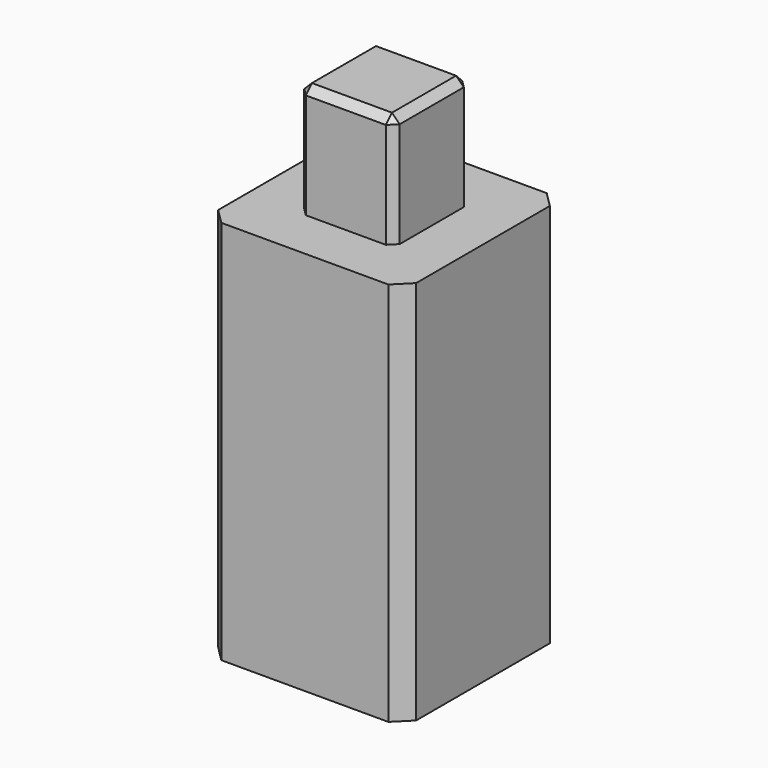
from build123d import *

# Parameters (mm, degrees)
F0_W     = 12.85
F0_H     = 12.85
F0_W_2   = 6.2
F0_H_2   = 6.2
F1_DEPTH = 25
F2_DEPTH = 32.35
F3_SIZE  = 0.5
F4_SIZE  = 1


with BuildPart() as f1:
    # F0 (on Top) → F1 (new body)
    with BuildSketch(Plane.XY):
        Rectangle(F0_W, F0_H)
        Rectangle(F0_W_2, F0_H_2, mode=Mode.SUBTRACT)
    extrude(amount=F1_DEPTH)

    # F0 (on Top) → F2 (join)
    with BuildSketch(Plane.XY):
        Rectangle(F0_W_2, F0_H_2)
    extrude(amount=F2_DEPTH)

    # F3
    f3_edges = [f1.edges().sort_by_distance(p)[0] for p in [
        (3.1, -3.1, 28.675),
        (3.1, 3.1, 28.675),
        (-3.1, -3.1, 28.675),
        (-3.1, 3.1, 28.675),
        (-3.1, 0, 32.35),
        (0, 3.1, 32.35),
        (3.1, 0, 32.35),
        (0, -3.1, 32.35),
    ]]
    chamfer(f3_edges, length=F3_SIZE)

    # F4
    f4_edges = [f1.edges().sort_by_distance(p)[0] for p in [
        (-6.425, -6.425, 12.5),
        (-6.425, 6.425, 12.5),
        (6.425, 6.425, 12.5),
        (6.425, -6.425, 12.5),
    ]]
    chamfer(f4_edges, length=F4_SIZE)


solid = f1.part
